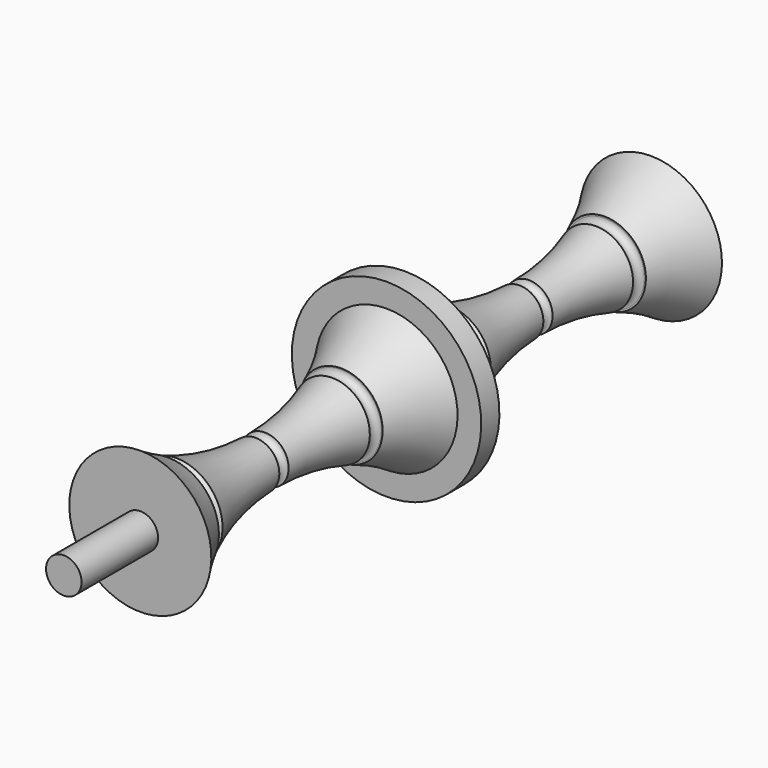
from build123d import *

# Parameters (mm, degrees)
F0_R     = 9.525
F1_DEPTH = 406.4
F4_R     = 3.175


with BuildPart() as f1:
    # F0 (on Front) → F1 (new body)
    with BuildSketch(Plane.XZ):
        Circle(F0_R)
    extrude(amount=F1_DEPTH)

    # F2 (on Right) → F3 (revolve)
    with BuildSketch(Plane.YZ):
        with BuildLine():
            Line((-355.092, 0), (-12.7, 0))
            Line((-12.7, 0), (-12.7, 38.1))
            ThreePointArc((-12.7, 38.1), (-95.25, 12.7), (-177.8, 38.1))
            Line((-177.8, 38.1), (-177.8, 50.8))
            Line((-177.8, 50.8), (-189.992, 50.8))
            Line((-189.992, 50.8), (-189.992, 38.1))
            ThreePointArc((-189.992, 38.1), (-272.542, 12.7), (-355.092, 38.1))
            Line((-355.092, 38.1), (-355.092, 0))
        make_face()
    revolve(axis=Axis((0, -183.896, 0), (0, -1, 0)))

    # F4 (on Right) → F5 (revolve, cut)
    with BuildSketch(Plane.YZ):
        with Locations((-274.7069299221, 12.8027647734)):
            Circle(F4_R)
        with Locations((-223.5062271357, 21.5019136667)):
            Circle(F4_R)
        with Locations((-333.7746560574, 26.3422075659)):
            Circle(F4_R)
        with Locations((-97.6773649454, 12.9549698904)):
            Circle(F4_R)
        with Locations((-46.6807894409, 21.106062457)):
            Circle(F4_R)
        with Locations((-151.1819660664, 24.0320954472)):
            Circle(F4_R)
    revolve(axis=Axis((0, 0, 0), (0, 1, 0)), mode=Mode.SUBTRACT)


solid = f1.part
